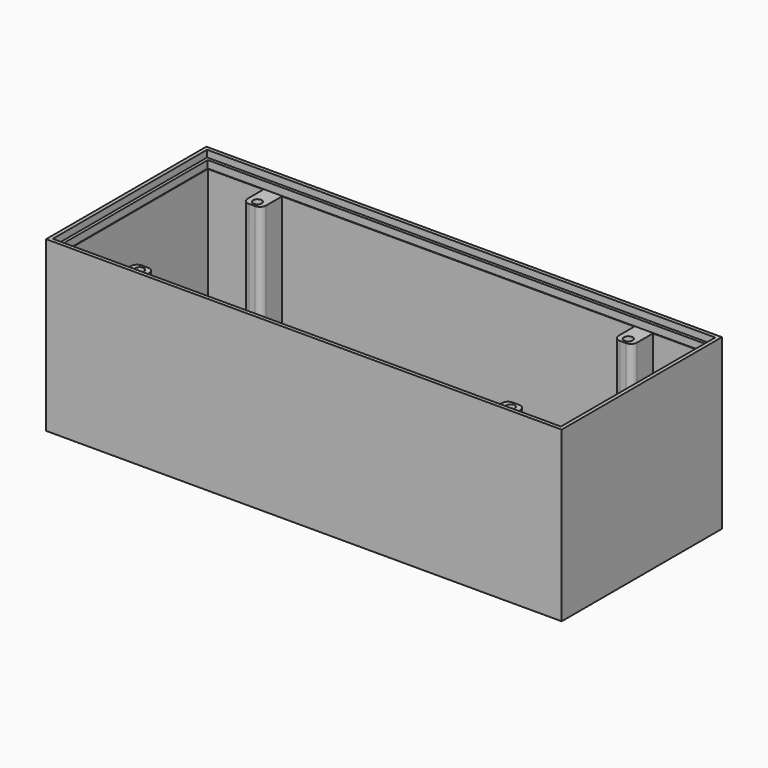
from build123d import *

# Parameters (mm, degrees)
SKETCH_W        = 166.8
SKETCH_H        = 64.8
PAD_DEPTH       = 54.6
SKETCH001_W     = 164.4
SKETCH001_H     = 62.4
POCKET_DEPTH    = 2.2
SKETCH002_W     = 162.4
SKETCH002_H     = 60.4
POCKET001_DEPTH = 2.4
SKETCH003_R     = 1.417537
SKETCH003_R_2   = 1.403016
SKETCH003_R_3   = 1.376417
SKETCH003_R_4   = 1.428442
POCKET002_DEPTH = 10
POCKET003_DEPTH = 47
SKETCH005_R     = 4.970408
POCKET004_DEPTH = 3
FILLET_R        = 2


with BuildPart() as part:
    # Sketch → Pad (new body)
    with BuildSketch(Plane.XY):
        Rectangle(SKETCH_W, SKETCH_H)
    extrude(amount=PAD_DEPTH)

    # Sketch001 (on Face6 of Pad) → Pocket (cut)
    with BuildSketch(Plane.XY.offset(54.6)):
        Rectangle(SKETCH001_W, SKETCH001_H)
    extrude(amount=-POCKET_DEPTH, mode=Mode.SUBTRACT)

    # Sketch002 (on Face11 of Pocket) → Pocket001 (cut)
    with BuildSketch(Plane.XY.offset(52.4)):
        Rectangle(SKETCH002_W, SKETCH002_H)
    extrude(amount=-POCKET001_DEPTH, mode=Mode.SUBTRACT)

    # Sketch003 (on Face16 of Pocket001) → Pocket002 (cut)
    with BuildSketch(Plane.XY.offset(50)):
        with Locations((-60, 23.8)):
            Circle(SKETCH003_R)
        with Locations((-60, -23.8)):
            Circle(SKETCH003_R_2)
        with Locations((60, -23.8)):
            Circle(SKETCH003_R_3)
        with Locations((60, 23.8)):
            Circle(SKETCH003_R_4)
    extrude(amount=-POCKET002_DEPTH, mode=Mode.SUBTRACT)

    # Sketch004 (on Face16 of Pocket002) → Pocket003 (cut)
    with BuildSketch(Plane.XY.offset(50)):
        Polygon((-81, -30), (-81, 30), (-63, 30), (-63, 21.6), (-57, 21.6), (-57, 30), (57, 30), (57, 21.6), (63, 21.6), (63, 30), (81, 30), (81, -30), (63, -30), (63, -21.6), (57, -21.6), (57, -30), (-57, -30), (-57, -21.6), (-63, -21.6), (-63, -30), align=None)
    extrude(amount=-POCKET003_DEPTH, mode=Mode.SUBTRACT)

    # Sketch005 (on Face44 of Pocket003) → Pocket004 (cut)
    with BuildSketch(Plane.XY.offset(3)):
        with Locations((-60.009918, 0)):
            Circle(SKETCH005_R)
    extrude(amount=-POCKET004_DEPTH, mode=Mode.SUBTRACT)

    # Fillet
    fillet_edges = [part.edges().sort_by_distance(p)[0] for p in [
        (-63, 21.6, 26.5),
        (-57, 21.6, 26.5),
        (57, 21.6, 26.5),
        (63, 21.6, 26.5),
        (63, -21.6, 26.5),
        (-57, -21.6, 26.5),
        (57, -21.6, 26.5),
        (-63, -21.6, 26.5),
    ]]
    fillet(fillet_edges, radius=FILLET_R)


solid = part.part
